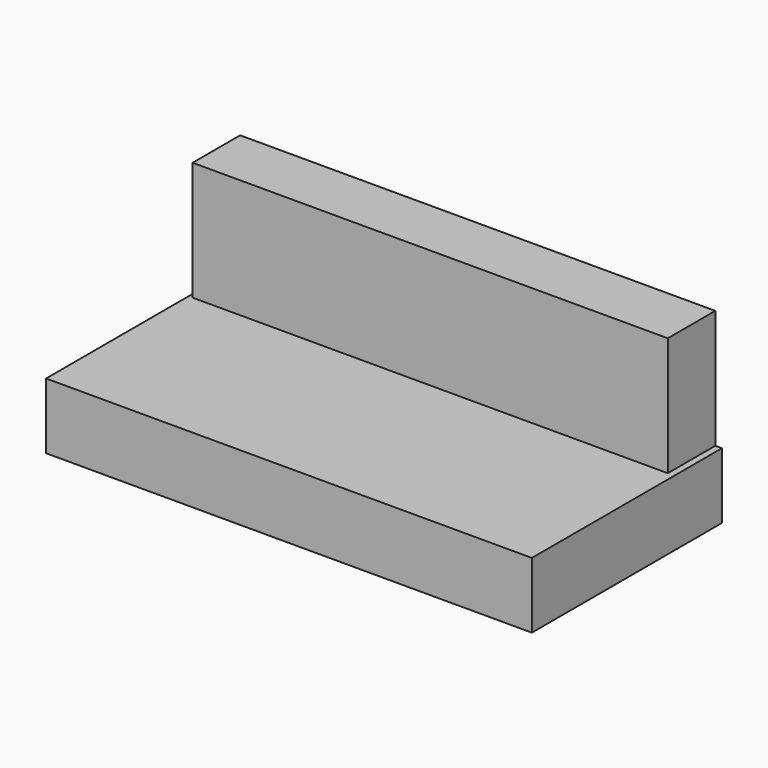
from build123d import *

# Parameters (mm, degrees)
F1_DEPTH = 6.35
F3_DEPTH = 25.4
F4_DEPTH = 25.4


with BuildPart() as f1:
    # F0 (on Front) → F1 (new body)
    with BuildSketch(Plane.XZ):
        Polygon((-25.4, 0), (0, 0), (25.4, 0), (25.4, 12.7), (-25.4, 12.7), align=None)
    extrude(amount=F1_DEPTH)

    # F2 (on Front) → F3 (join)
    with BuildSketch(Plane.XZ):
        Polygon((26.108526, -7.03671), (26.108526, 0), (0, 0), (-25.82779, 0), (-25.82779, -7.03671), align=None)
    extrude(amount=F3_DEPTH)

    # F2 (on Front) → F4 (join)
    with BuildSketch(Plane.XZ):
        Polygon((26.108526, -7.03671), (26.108526, 0), (0, 0), (-25.82779, 0), (-25.82779, -7.03671), align=None)
    extrude(amount=F4_DEPTH)


solid = f1.part
